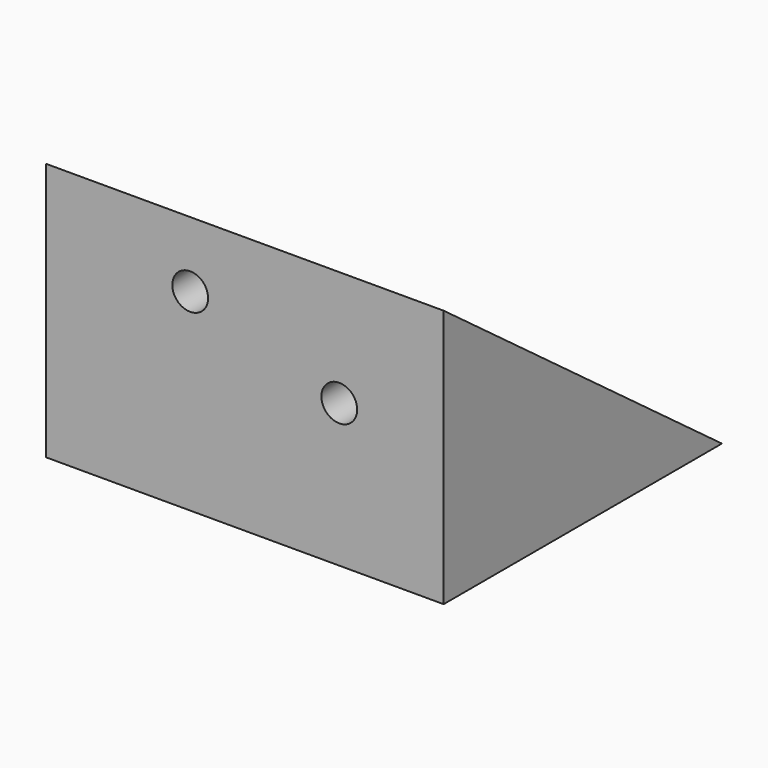
from build123d import *

# Parameters (mm, degrees)
PAD031_DEPTH    = 50.8
SKETCH066_R     = 2.286
POCKET030_DEPTH = 5.08
SKETCH070_R     = 2.286
POCKET033_DEPTH = 4.318


with BuildPart() as part:
    # Sketch065 → Pad031 (new body)
    with BuildSketch(Plane.YZ):
        Polygon((0, 0), (0, 33.02), (44.45, 0), align=None)
    extrude(amount=PAD031_DEPTH)

    # Sketch066 (on Face1 of Pad031) → Pocket030 (cut)
    with BuildSketch(Plane(origin=(0, 0, 0), x_dir=(0, 0, -1), z_dir=(0, -1, 0))):
        with Locations((-24.638, 18.415)):
            Circle(SKETCH066_R)
        with Locations((-18.288, 37.465)):
            Circle(SKETCH066_R)
    extrude(amount=-POCKET030_DEPTH, mode=Mode.SUBTRACT)

    # Sketch070 (on Face5 of Pocket030) → Pocket033 (cut)
    with BuildSketch(Plane(origin=(0, 15.8065228827, 21.2780115729), x_dir=(0, -0.802743848, 0.5963240013), z_dir=(0, 0.5963240013, 0.802743848))):
        with Locations((-24.7593814758, 38.1)):
            Circle(SKETCH070_R)
        with Locations((13.3406185242, 38.1)):
            Circle(SKETCH070_R)
        with Locations((13.3406185242, 12.7)):
            Circle(SKETCH070_R)
        with Locations((-24.7593814758, 12.7)):
            Circle(SKETCH070_R)
    extrude(amount=-POCKET033_DEPTH, mode=Mode.SUBTRACT)


with BuildPart() as part_1:
    # Body023 placement: moved
    add(part.part.moved(Location((-66.04, 63.5, -3.048))))


solid = part_1.part
